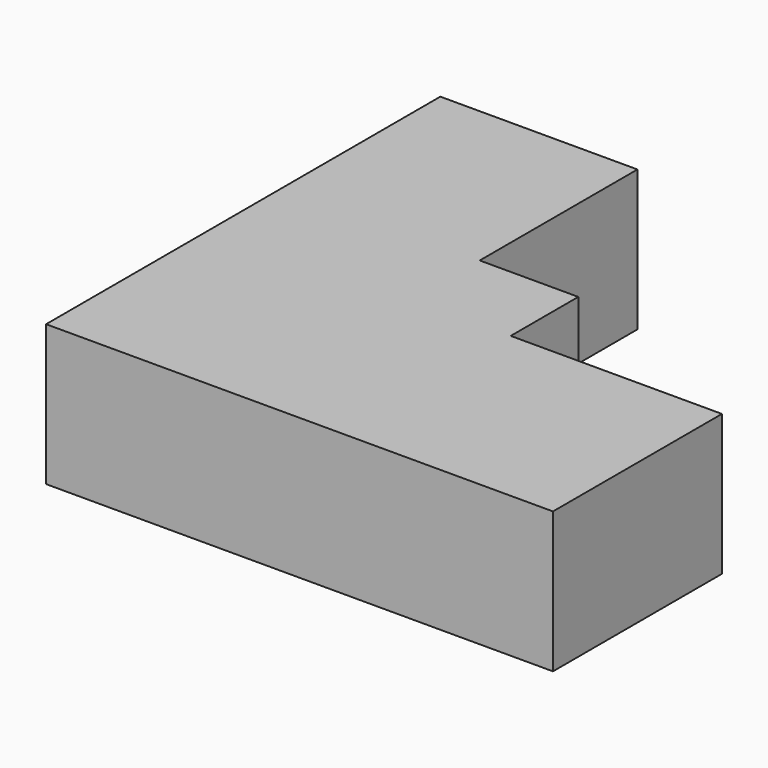
from build123d import *

# Parameters (mm, degrees)
F0_W     = 14
F0_H     = 14
F0_W_2   = 15
F0_H_2   = 15
F1_DEPTH = 10


with BuildPart() as f1:
    # F0 (on Top) → F1 (new body)
    with BuildSketch(Plane.XY):
        Polygon((-21, -1.789773), (0, -1.789773), (0, 13.210227), (0, 19.210227), (-7, 19.210227), (-21, 19.210227), align=None)
        with Locations((-14, 26.210227)):
            Rectangle(F0_W, F0_H)
        with Locations((7.5, 5.710227)):
            Rectangle(F0_W_2, F0_H_2)
    extrude(amount=F1_DEPTH)


solid = f1.part
